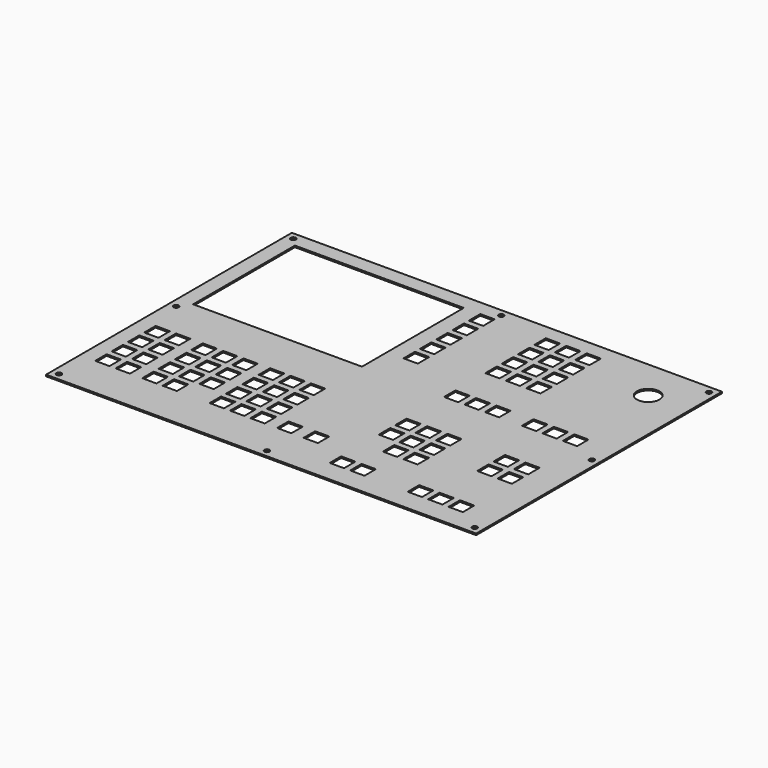
from build123d import *

# Parameters (mm, degrees)
SKETCH_W   = 420
SKETCH_H   = 300
SKETCH_R   = 11
SKETCH_R_2 = 2.5
SKETCH_W_2 = 164.9
SKETCH_H_2 = 124.27
SKETCH_W_3 = 13.95
SKETCH_H_3 = 13.95
PAD_DEPTH  = 1.5


with BuildPart() as part:
    # Sketch → Pad (new body)
    with BuildSketch(Plane.XY):
        Rectangle(SKETCH_W, SKETCH_H)
        with Locations((170, 110)):
            Circle(SKETCH_R, mode=Mode.SUBTRACT)
        with Locations((-203, 143)):
            Circle(SKETCH_R_2, mode=Mode.SUBTRACT)
        with Locations((-203, 0)):
            Circle(SKETCH_R_2, mode=Mode.SUBTRACT)
        with Locations((-203, -143)):
            Circle(SKETCH_R_2, mode=Mode.SUBTRACT)
        with Locations((203, -143)):
            Circle(SKETCH_R_2, mode=Mode.SUBTRACT)
        with Locations((203, 0)):
            Circle(SKETCH_R_2, mode=Mode.SUBTRACT)
        with Locations((203, 143)):
            Circle(SKETCH_R_2, mode=Mode.SUBTRACT)
        with Locations((0, -143)):
            Circle(SKETCH_R_2, mode=Mode.SUBTRACT)
        with Locations((0, 143)):
            Circle(SKETCH_R_2, mode=Mode.SUBTRACT)
        with Locations((-112.55, 72.865)):
            Rectangle(SKETCH_W_2, SKETCH_H_2, mode=Mode.SUBTRACT)
        with Locations((-188.025, -41.975)):
            Rectangle(SKETCH_W_3, SKETCH_H_3, mode=Mode.SUBTRACT)
        with Locations((-188.025, -61.925)):
            Rectangle(SKETCH_W_3, SKETCH_H_3, mode=Mode.SUBTRACT)
        with Locations((-188.025, -81.875)):
            Rectangle(SKETCH_W_3, SKETCH_H_3, mode=Mode.SUBTRACT)
        with Locations((-188.025, -101.825)):
            Rectangle(SKETCH_W_3, SKETCH_H_3, mode=Mode.SUBTRACT)
        with Locations((-168.075, -41.975)):
            Rectangle(SKETCH_W_3, SKETCH_H_3, mode=Mode.SUBTRACT)
        with Locations((-168.075, -61.925)):
            Rectangle(SKETCH_W_3, SKETCH_H_3, mode=Mode.SUBTRACT)
        with Locations((-168.075, -81.875)):
            Rectangle(SKETCH_W_3, SKETCH_H_3, mode=Mode.SUBTRACT)
        with Locations((-168.075, -101.825)):
            Rectangle(SKETCH_W_3, SKETCH_H_3, mode=Mode.SUBTRACT)
        with Locations((-142.125, -41.975)):
            Rectangle(SKETCH_W_3, SKETCH_H_3, mode=Mode.SUBTRACT)
        with Locations((-122.175, -41.975)):
            Rectangle(SKETCH_W_3, SKETCH_H_3, mode=Mode.SUBTRACT)
        with Locations((-142.125, -61.925)):
            Rectangle(SKETCH_W_3, SKETCH_H_3, mode=Mode.SUBTRACT)
        with Locations((-122.175, -61.925)):
            Rectangle(SKETCH_W_3, SKETCH_H_3, mode=Mode.SUBTRACT)
        with Locations((-102.225, -61.925)):
            Rectangle(SKETCH_W_3, SKETCH_H_3, mode=Mode.SUBTRACT)
        with Locations((-142.125, -81.875)):
            Rectangle(SKETCH_W_3, SKETCH_H_3, mode=Mode.SUBTRACT)
        with Locations((-122.175, -81.875)):
            Rectangle(SKETCH_W_3, SKETCH_H_3, mode=Mode.SUBTRACT)
        with Locations((-102.225, -81.875)):
            Rectangle(SKETCH_W_3, SKETCH_H_3, mode=Mode.SUBTRACT)
        with Locations((56.975, 128.025)):
            Rectangle(SKETCH_W_3, SKETCH_H_3, mode=Mode.SUBTRACT)
        with Locations((76.925, 128.025)):
            Rectangle(SKETCH_W_3, SKETCH_H_3, mode=Mode.SUBTRACT)
        with Locations((96.875, 128.025)):
            Rectangle(SKETCH_W_3, SKETCH_H_3, mode=Mode.SUBTRACT)
        with Locations((56.975, 108.075)):
            Rectangle(SKETCH_W_3, SKETCH_H_3, mode=Mode.SUBTRACT)
        with Locations((76.925, 108.075)):
            Rectangle(SKETCH_W_3, SKETCH_H_3, mode=Mode.SUBTRACT)
        with Locations((96.875, 108.075)):
            Rectangle(SKETCH_W_3, SKETCH_H_3, mode=Mode.SUBTRACT)
        with Locations((56.975, 88.125)):
            Rectangle(SKETCH_W_3, SKETCH_H_3, mode=Mode.SUBTRACT)
        with Locations((76.925, 88.125)):
            Rectangle(SKETCH_W_3, SKETCH_H_3, mode=Mode.SUBTRACT)
        with Locations((96.875, 88.125)):
            Rectangle(SKETCH_W_3, SKETCH_H_3, mode=Mode.SUBTRACT)
        with Locations((56.975, 68.175)):
            Rectangle(SKETCH_W_3, SKETCH_H_3, mode=Mode.SUBTRACT)
        with Locations((76.925, 68.175)):
            Rectangle(SKETCH_W_3, SKETCH_H_3, mode=Mode.SUBTRACT)
        with Locations((96.875, 68.175)):
            Rectangle(SKETCH_W_3, SKETCH_H_3, mode=Mode.SUBTRACT)
        with Locations((173.025, -121.775)):
            Rectangle(SKETCH_W_3, SKETCH_H_3, mode=Mode.SUBTRACT)
        with Locations((153.075, -121.775)):
            Rectangle(SKETCH_W_3, SKETCH_H_3, mode=Mode.SUBTRACT)
        with Locations((133.125, -121.775)):
            Rectangle(SKETCH_W_3, SKETCH_H_3, mode=Mode.SUBTRACT)
        with Locations((56.975, -41.975)):
            Rectangle(SKETCH_W_3, SKETCH_H_3, mode=Mode.SUBTRACT)
        with Locations((96.875, -61.925)):
            Rectangle(SKETCH_W_3, SKETCH_H_3, mode=Mode.SUBTRACT)
        with Locations((76.925, -61.925)):
            Rectangle(SKETCH_W_3, SKETCH_H_3, mode=Mode.SUBTRACT)
        with Locations((56.975, -61.925)):
            Rectangle(SKETCH_W_3, SKETCH_H_3, mode=Mode.SUBTRACT)
        with Locations((76.925, -41.975)):
            Rectangle(SKETCH_W_3, SKETCH_H_3, mode=Mode.SUBTRACT)
        with Locations((76.925, -81.875)):
            Rectangle(SKETCH_W_3, SKETCH_H_3, mode=Mode.SUBTRACT)
        with Locations((-10.425, -101.825)):
            Rectangle(SKETCH_W_3, SKETCH_H_3, mode=Mode.SUBTRACT)
        with Locations((96.875, -41.975)):
            Rectangle(SKETCH_W_3, SKETCH_H_3, mode=Mode.SUBTRACT)
        with Locations((96.875, -81.875)):
            Rectangle(SKETCH_W_3, SKETCH_H_3, mode=Mode.SUBTRACT)
        with Locations((-122.175, -101.825)):
            Rectangle(SKETCH_W_3, SKETCH_H_3, mode=Mode.SUBTRACT)
        with Locations((-102.225, -41.975)):
            Rectangle(SKETCH_W_3, SKETCH_H_3, mode=Mode.SUBTRACT)
        with Locations((-142.125, -101.825)):
            Rectangle(SKETCH_W_3, SKETCH_H_3, mode=Mode.SUBTRACT)
        with Locations((-76.275, -41.975)):
            Rectangle(SKETCH_W_3, SKETCH_H_3, mode=Mode.SUBTRACT)
        with Locations((-56.325, -41.975)):
            Rectangle(SKETCH_W_3, SKETCH_H_3, mode=Mode.SUBTRACT)
        with Locations((-76.275, -61.925)):
            Rectangle(SKETCH_W_3, SKETCH_H_3, mode=Mode.SUBTRACT)
        with Locations((-56.325, -61.925)):
            Rectangle(SKETCH_W_3, SKETCH_H_3, mode=Mode.SUBTRACT)
        with Locations((-36.375, -61.925)):
            Rectangle(SKETCH_W_3, SKETCH_H_3, mode=Mode.SUBTRACT)
        with Locations((-76.275, -81.875)):
            Rectangle(SKETCH_W_3, SKETCH_H_3, mode=Mode.SUBTRACT)
        with Locations((-56.325, -81.875)):
            Rectangle(SKETCH_W_3, SKETCH_H_3, mode=Mode.SUBTRACT)
        with Locations((-36.375, -81.875)):
            Rectangle(SKETCH_W_3, SKETCH_H_3, mode=Mode.SUBTRACT)
        with Locations((-56.325, -101.825)):
            Rectangle(SKETCH_W_3, SKETCH_H_3, mode=Mode.SUBTRACT)
        with Locations((-36.375, -41.975)):
            Rectangle(SKETCH_W_3, SKETCH_H_3, mode=Mode.SUBTRACT)
        with Locations((-76.275, -101.825)):
            Rectangle(SKETCH_W_3, SKETCH_H_3, mode=Mode.SUBTRACT)
        with Locations((56.975, -121.775)):
            Rectangle(SKETCH_W_3, SKETCH_H_3, mode=Mode.SUBTRACT)
        with Locations((76.925, -121.775)):
            Rectangle(SKETCH_W_3, SKETCH_H_3, mode=Mode.SUBTRACT)
        with Locations((56.975, 17.705)):
            Rectangle(SKETCH_W_3, SKETCH_H_3, mode=Mode.SUBTRACT)
        with Locations((76.925, 17.705)):
            Rectangle(SKETCH_W_3, SKETCH_H_3, mode=Mode.SUBTRACT)
        with Locations((173.025, -61.925)):
            Rectangle(SKETCH_W_3, SKETCH_H_3, mode=Mode.SUBTRACT)
        with Locations((173.025, -41.975)):
            Rectangle(SKETCH_W_3, SKETCH_H_3, mode=Mode.SUBTRACT)
        with Locations((96.875, 17.705)):
            Rectangle(SKETCH_W_3, SKETCH_H_3, mode=Mode.SUBTRACT)
        with Locations((153.075, -41.975)):
            Rectangle(SKETCH_W_3, SKETCH_H_3, mode=Mode.SUBTRACT)
        with Locations((153.075, -61.925)):
            Rectangle(SKETCH_W_3, SKETCH_H_3, mode=Mode.SUBTRACT)
        with Locations((133.125, 17.705)):
            Rectangle(SKETCH_W_3, SKETCH_H_3, mode=Mode.SUBTRACT)
        with Locations((153.075, 17.705)):
            Rectangle(SKETCH_W_3, SKETCH_H_3, mode=Mode.SUBTRACT)
        with Locations((173.025, 17.705)):
            Rectangle(SKETCH_W_3, SKETCH_H_3, mode=Mode.SUBTRACT)
        with Locations((-36.375, -101.825)):
            Rectangle(SKETCH_W_3, SKETCH_H_3, mode=Mode.SUBTRACT)
        with Locations((15.525, -101.825)):
            Rectangle(SKETCH_W_3, SKETCH_H_3, mode=Mode.SUBTRACT)
        with Locations((-6.975, 128.025)):
            Rectangle(SKETCH_W_3, SKETCH_H_3, mode=Mode.SUBTRACT)
        with Locations((-6.975, 108.075)):
            Rectangle(SKETCH_W_3, SKETCH_H_3, mode=Mode.SUBTRACT)
        with Locations((-6.975, 88.125)):
            Rectangle(SKETCH_W_3, SKETCH_H_3, mode=Mode.SUBTRACT)
        with Locations((-6.975, 68.175)):
            Rectangle(SKETCH_W_3, SKETCH_H_3, mode=Mode.SUBTRACT)
        with Locations((-6.975, 48.225)):
            Rectangle(SKETCH_W_3, SKETCH_H_3, mode=Mode.SUBTRACT)
    extrude(amount=PAD_DEPTH)


solid = part.part
